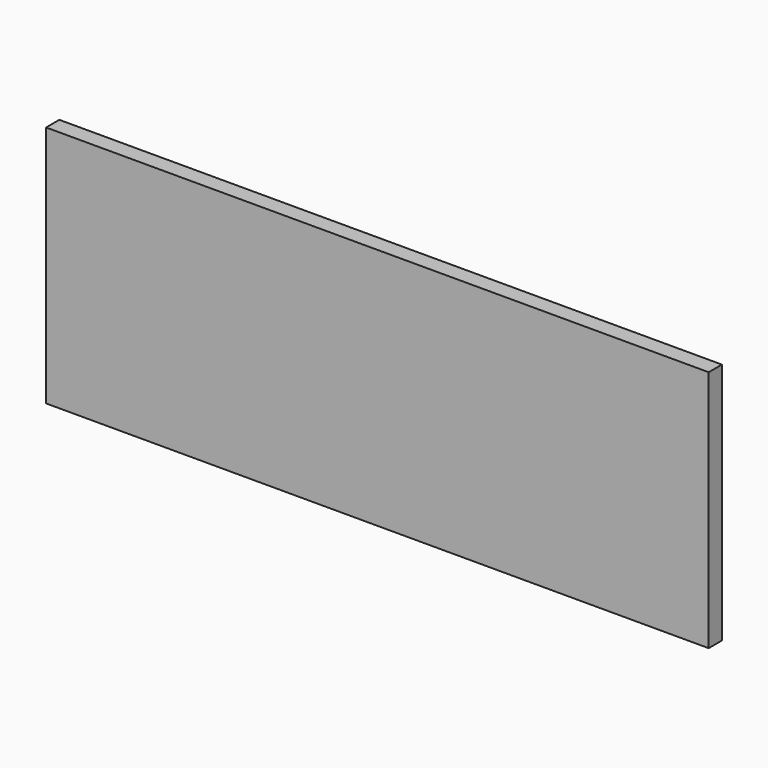
from build123d import *

# Parameters (mm, degrees)
SKETCH_W  = 600
SKETCH_H  = 220
PAD_DEPTH = 15


with BuildPart() as part:
    # Sketch → Pad (new body)
    with BuildSketch(Plane.XZ):
        with Locations((300, 110)):
            Rectangle(SKETCH_W, SKETCH_H)
    extrude(amount=PAD_DEPTH)


solid = part.part
